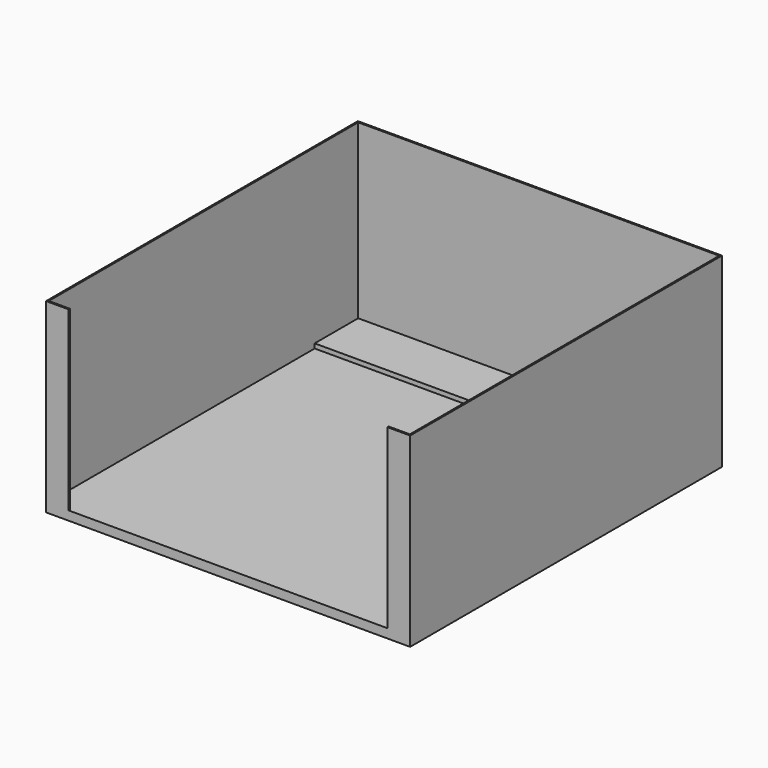
from build123d import *

# Parameters (mm, degrees)
F0_W      = 6121.4
F0_H      = 6553.2
F1_DEPTH  = 3048
F2_W      = 6070.6
F2_H      = 5613.4
F3_DEPTH  = 2895.6
F4_W      = 6070.6
F4_H      = 25.4
F5_DEPTH  = 80
F6_DEPTH  = 2819.4
F7_W      = 25.4
F7_H      = 2975.6
F8_DEPTH  = 355.6
F9_W      = 25.4
F9_H      = 2975.6
F10_DEPTH = 355.6


with BuildPart() as f1:
    # F0 (on Top) → F1 (new body)
    with BuildSketch(Plane.XY):
        with Locations((0, -3276.6)):
            Rectangle(F0_W, F0_H)
    extrude(amount=F1_DEPTH)

    # F2 (on face) → F3 (cut)
    with BuildSketch(Plane.XY.offset(3048)):
        with Locations((0, -3746.5)):
            Rectangle(F2_W, F2_H)
    extrude(amount=-F3_DEPTH, mode=Mode.SUBTRACT)

    # F4 (on face) → F5 (join)
    with BuildSketch(Plane.XY.offset(3048)):
        Polygon((-3060.7, 0), (-3060.7, -6553.2), (-3035.3, -6553.2), (-3035.3, -25.4), (-3035.3, 0), align=None)
        with Locations((0, -12.7)):
            Rectangle(F4_W, F4_H)
        Polygon((3035.3, 0), (3035.3, -25.4), (3035.3, -6553.2), (3060.7, -6553.2), (3060.7, 0), align=None)
    extrude(amount=F5_DEPTH)

    # F6 (cut): a face of the model
    f6_faces = [f1.faces().sort_by_distance(p)[0] for p in [
        (0, -482.6, 3048),
    ]]
    extrude(f6_faces, amount=-F6_DEPTH, mode=Mode.SUBTRACT)

    # F7 (on face) → F8 (join)
    with BuildSketch(Plane.YZ.offset(-3035.3)):
        with Locations((-6540.5, 1640.2)):
            Rectangle(F7_W, F7_H)
    extrude(amount=F8_DEPTH)

    # F9 (on face) → F10 (join)
    with BuildSketch(Plane(origin=(3035.3, 0, 0), x_dir=(0, -1, 0), z_dir=(-1, 0, 0))):
        with Locations((6540.5, 1640.2)):
            Rectangle(F9_W, F9_H)
    extrude(amount=F10_DEPTH)


solid = f1.part
